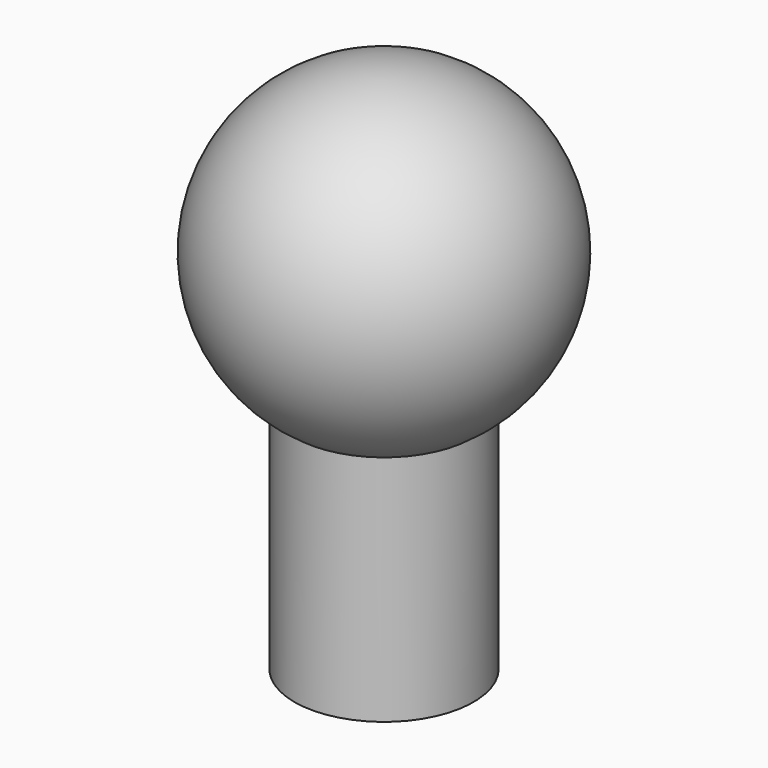
from build123d import *

# Parameters (mm, degrees)
F3_D     = 3.3
F3_DEPTH = 10
F3_TIP   = 0.9914200214


with BuildPart() as f1:
    # F0 (on Front) → F1 (revolve)
    with BuildSketch(Plane.XZ):
        with BuildLine():
            Line((0, 0), (0, 9))
            ThreePointArc((0, 9), (-8.6124860802, 2.6124860802), (-5, -7.4833147735))
            ThreePointArc((-5, -7.4833147735), (-2.6124860802, -8.6124860802), (0, -9))
            Line((0, -9), (0, 0))
        make_face()
        with BuildLine():
            ThreePointArc((0, -9), (-2.6124860802, -8.6124860802), (-5, -7.4833147735))
            Line((-5, -7.4833147735), (-5, -20.4833147735))
            Line((-5, -20.4833147735), (0, -20.4833147735))
            Line((0, -20.4833147735), (0, -9))
        make_face()
    revolve(axis=Axis((0, 0, -10.2416573868), (0, 0, -1)))

    # F3
    with Locations(Plane(origin=(0, 0, -20.4833147735), x_dir=(1, 0, 0), z_dir=(0, 0, -1))):
        with Locations((0, 0)):
            Hole(F3_D / 2, depth=F3_DEPTH)
            with Locations((0, 0, -(F3_DEPTH + F3_TIP / 2))):  # 118° drill point
                Cone(0, F3_D / 2, F3_TIP, mode=Mode.SUBTRACT)


solid = f1.part
